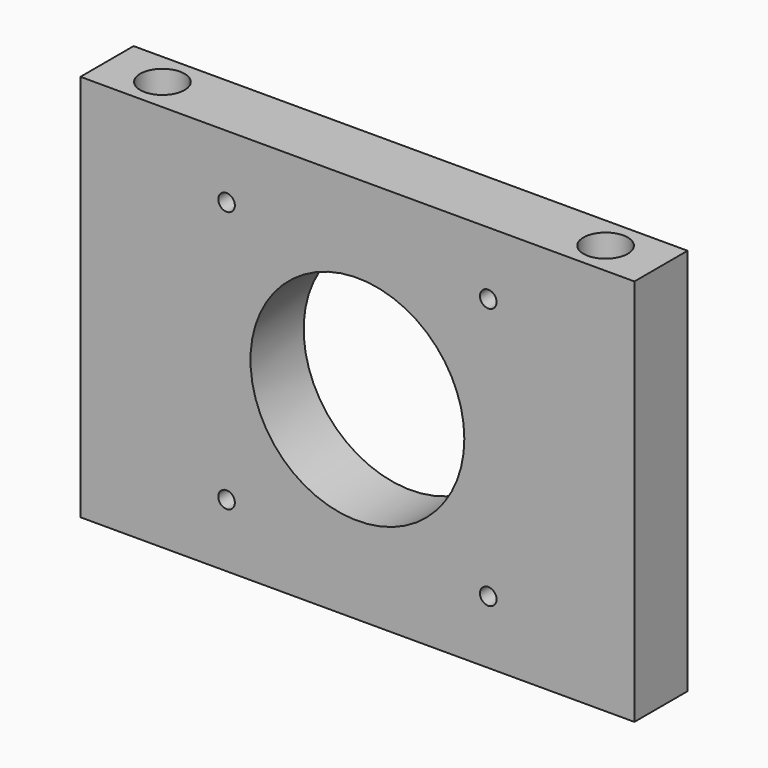
from build123d import *

# Parameters (mm, degrees)
F0_W     = 100
F0_H     = 70
F1_DEPTH = 12
F2_R     = 19.3
F2_R_2   = 1.5
F3_DEPTH = 12.001
F5_D     = 8


with BuildPart() as f1:
    # F0 (on Front) → F1 (new body)
    with BuildSketch(Plane.XZ):
        Rectangle(F0_W, F0_H)
    extrude(amount=F1_DEPTH)

    # F2 (on face) → F3 (cut, through all)
    with BuildSketch(Plane.XZ.offset(12)):
        Circle(F2_R)
        with Locations((-23.622, 23.622)):
            Circle(F2_R_2)
        with Locations((23.622, 23.622)):
            Circle(F2_R_2)
        with Locations((23.622, -23.622)):
            Circle(F2_R_2)
        with Locations((-23.622, -23.622)):
            Circle(F2_R_2)
    extrude(amount=-F3_DEPTH, mode=Mode.SUBTRACT)

    # F5 (through all)
    with Locations(Plane.XY.offset(35)):
        with Locations((-40, -6), (40, -6)):
            Hole(F5_D / 2)


solid = f1.part
